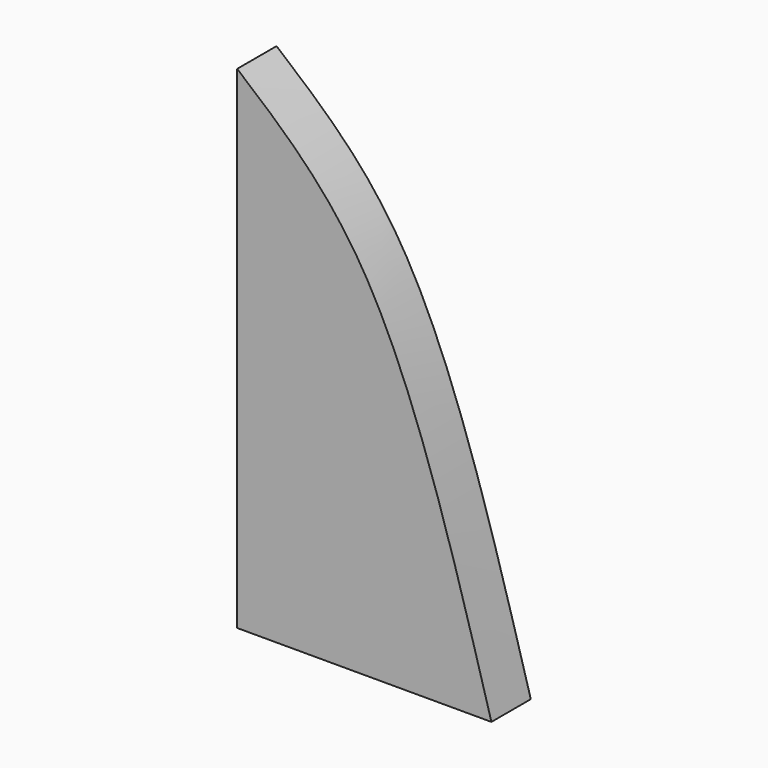
from build123d import *

# Parameters (mm, degrees)
F1_DEPTH = 2.54


with BuildPart() as f1:
    # F0 (on Front) → F1 (new body)
    with BuildSketch(Plane.XZ):
        with BuildLine():
            Line((0, 25.4), (0, 0))
            Line((0, 0), (13.1163941696, 0))
            add(Edge.make_bspline(
                [(0, 25.4), (2.2585380942, 23.5054154729), (7.7831717521, 18.8710524426), (11.1348959755, 7.0113251257), (13.1163941696, 0)],
                knots=[0, 0, 0, 0, 0.4088122822, 1, 1, 1, 1], degree=3))
        make_face()
    extrude(amount=F1_DEPTH)


solid = f1.part
